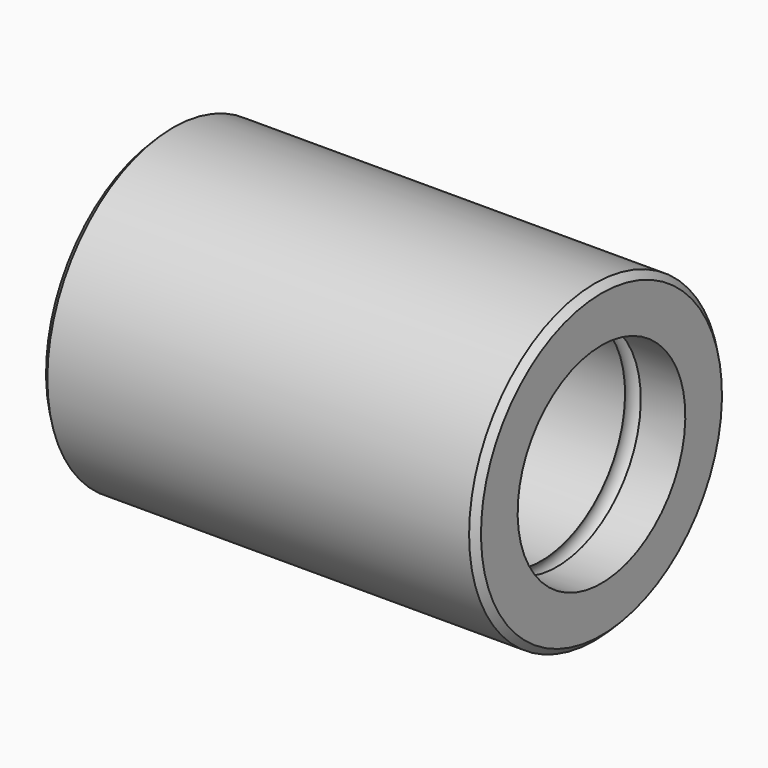
from build123d import *

# Parameters (mm, degrees)
F2_SIZE = 1.6002


with BuildPart() as f1:
    # F0 (on Front) → F1 (revolve)
    with BuildSketch(Plane.XZ):
        with BuildLine():
            Line((105.41, 38.1), (0, 38.1))
            Line((0, 38.1), (0, 25.4))
            Line((0, 25.4), (10.795, 25.4))
            ThreePointArc((10.795, 25.4), (12.7, 31.115), (14.605, 25.4))
            Line((14.605, 25.4), (90.805, 25.4))
            ThreePointArc((90.805, 25.4), (92.71, 31.115), (94.615, 25.4))
            Line((94.615, 25.4), (105.41, 25.4))
            Line((105.41, 25.4), (105.41, 38.1))
        make_face()
    revolve(axis=Axis((63.5, 0, 0), (1, 0, 0)))

    # F2
    f2_edges = [f1.edges().sort_by_distance(p)[0] for p in [
        (105.41, 0, -38.1),
        (0, 0, -38.1),
    ]]
    chamfer(f2_edges, length=F2_SIZE)


solid = f1.part
